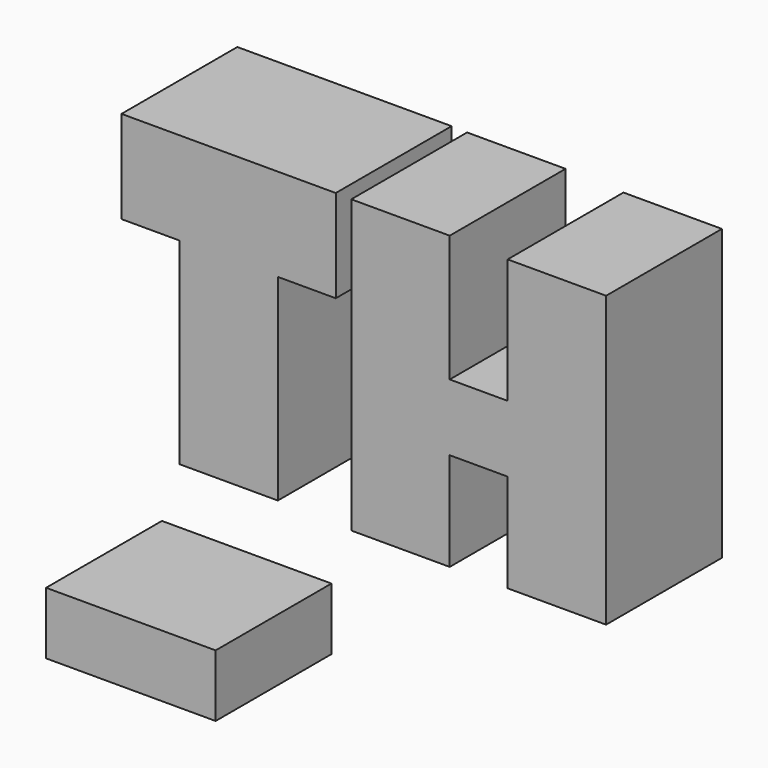
from build123d import *

# Parameters (mm, degrees)
F0_W     = 29.275094
F0_H     = 10.734205
F1_DEPTH = 25


with BuildPart() as f1:
    # F0 (on Front) → F1 (new body)
    with BuildSketch(Plane.XZ):
        Polygon((18.5, 52), (-18.5, 52), (-18.5, 36), (-8.5, 36), (-8.5, 2), (8.5, 2), (8.5, 36), (18.5, 36), align=None)
        Polygon((38.175651, 30.055763), (38.175651, 51.914502), (21.175651, 51.914502), (21.175651, 1.561338), (38.175651, 1.561338), (38.175651, 18.540893), (48.175651, 18.540893), (48.175651, 1.561338), (65.175651, 1.561338), (65.175651, 51.561338), (48.175651, 51.561338), (48.175651, 30.055763), align=None)
        with Locations((-16.882745, -29.638057)):
            Rectangle(F0_W, F0_H)
    extrude(amount=F1_DEPTH)


solid = f1.part
